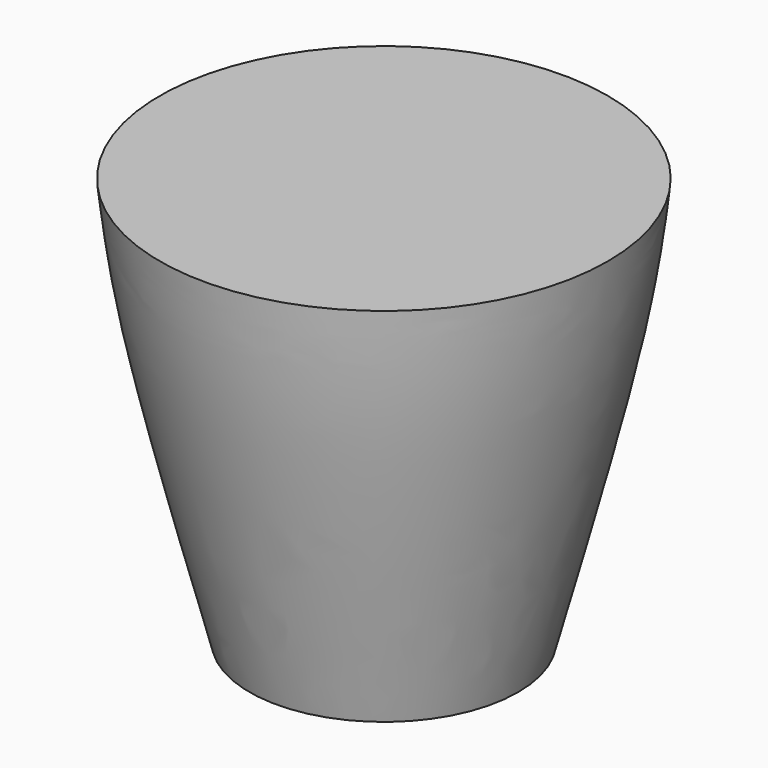
from build123d import *


with BuildPart() as f1:
    # F0 (on Front) → F1 (revolve)
    with BuildSketch(Plane.XZ):
        with BuildLine():
            Line((60.5714693666, 55.9121258557), (0, 55.9121258557))
            Line((0, 55.9121258557), (0, -54.5143187046))
            Line((0, -54.5143187046), (36.3428778946, -54.5143187046))
            add(Edge.make_bspline(
                [(60.5714693666, 55.9121258557), (59.4984701938, 46.6597437373), (56.7003201879, 22.5315302793), (44.1070438839, -25.1296469135), (36.3428778946, -54.5143187046)],
                knots=[0, 0, 0, 0, 0.3834673518, 1, 1, 1, 1], degree=3))
        make_face()
    revolve(axis=Axis((0, 0, 0.6989035755), (0, 0, -1)))


solid = f1.part
